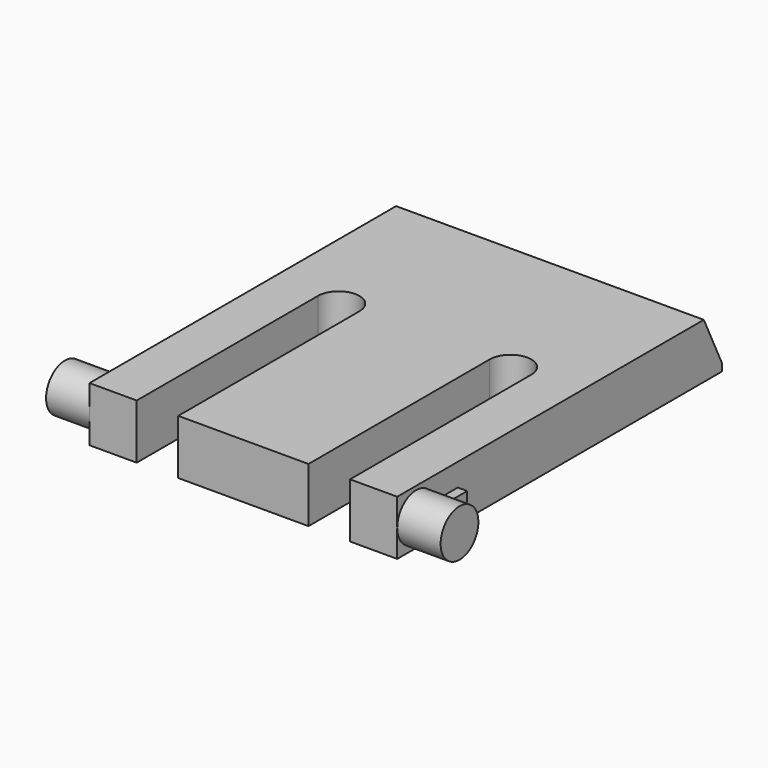
from build123d import *

# Parameters (mm, degrees)
F1_DEPTH = 1.45
F0_W     = 2.3
F0_H     = 1.25
F4_SIZE2 = 1.2
F4_SIZE  = 2.5
F0_W_2   = 0.5
F0_H_2   = 1.5
F5_DEPTH = 0.25
F6_DEPTH = 0.25


with BuildPart() as f1:
    # F0 (on Top) → F1 (new body, symmetric)
    with BuildSketch(Plane.XY):
        with BuildLine():
            Line((8.15, -6.74), (8.15, 10.75))
            Line((8.15, 10.75), (-8.15, 10.75))
            Line((-8.15, 10.75), (-8.15, -6.74))
            Line((-8.15, -6.74), (-8.15, -8.24))
            Line((-8.15, -8.24), (-8.15, -8.25))
            Line((-8.15, -8.25), (-8.15, -9.5))
            Line((-8.15, -9.5), (-8.15, -10.75))
            Line((-8.15, -10.75), (-5.65, -10.75))
            Line((-5.65, -10.75), (-5.65, 1.25))
            ThreePointArc((-5.65, 1.25), (-4.55, 2.35), (-3.45, 1.25))
            Line((-3.45, 1.25), (-3.45, -10.75))
            Line((-3.45, -10.75), (3.45, -10.75))
            Line((3.45, -10.75), (3.45, 1.25))
            ThreePointArc((3.45, 1.25), (4.55, 2.35), (5.65, 1.25))
            Line((5.65, 1.25), (5.65, -10.75))
            Line((5.65, -10.75), (8.15, -10.75))
            Line((8.15, -10.75), (8.15, -9.5))
            Line((8.15, -9.5), (8.15, -8.25))
            Line((8.15, -8.25), (8.15, -8.24))
            Line((8.15, -8.24), (8.15, -6.74))
        make_face()
    extrude(amount=F1_DEPTH, both=True)

    # F0 (on Top) → F2 (revolve)
    with BuildSketch(Plane.XY):
        with Locations((9.3, -10.125)):
            Rectangle(F0_W, F0_H)
    revolve(axis=Axis((9.3, -9.5, 0), (1, 0, 0)))

    # F0 (on Top) → F3 (revolve)
    with BuildSketch(Plane.XY):
        with Locations((-9.3, -10.125)):
            Rectangle(F0_W, F0_H)
    revolve(axis=Axis((-9.3, -9.5, 0), (-1, 0, 0)))

    # F4
    f4_edges = [f1.edges().sort_by_distance(p)[0] for p in [
        (0, 10.75, 1.45),
    ]]
    chamfer(f4_edges, length=F4_SIZE, length2=F4_SIZE2)

    # F0 (on Top) → F5 (join, symmetric)
    with BuildSketch(Plane.XY):
        with Locations((8.4, -7.49)):
            Rectangle(F0_W_2, F0_H_2)
    extrude(amount=F5_DEPTH, both=True)

    # F0 (on Top) → F6 (join, symmetric)
    with BuildSketch(Plane.XY):
        with Locations((-8.4, -7.49)):
            Rectangle(F0_W_2, F0_H_2)
    extrude(amount=F6_DEPTH, both=True)


solid = f1.part
